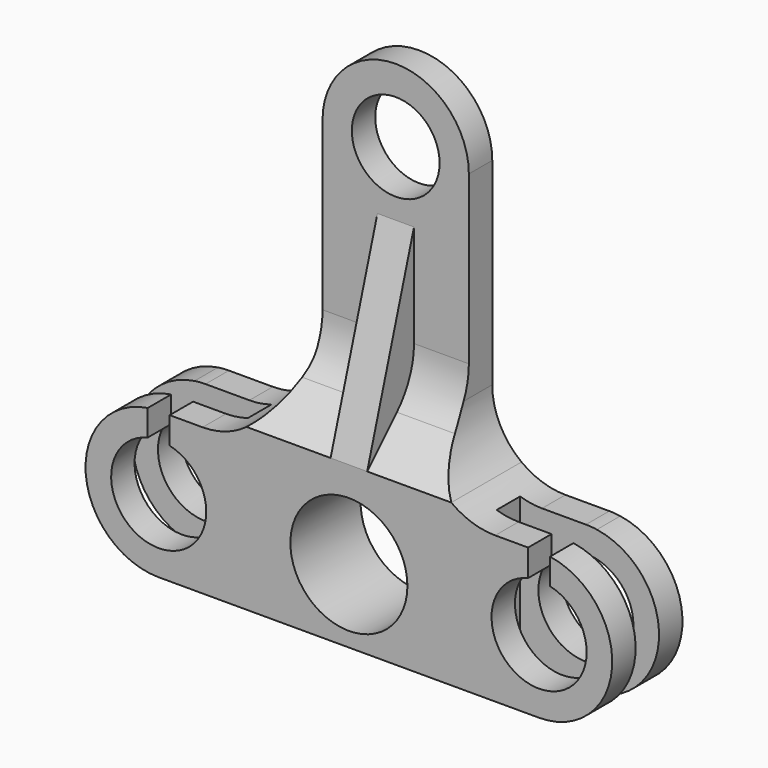
from build123d import *

# Parameters (mm, degrees)
F0_R     = 4
F0_R_2   = 3
F1_DEPTH = 6
F3_DEPTH = 12.5
F5_DEPTH = 1.25
F6_W     = 9.5
F6_H     = 2
F7_DEPTH = 25
F9_DEPTH = 3


with BuildPart() as f1:
    # F0 (on Front) → F1 (new body)
    with BuildSketch(Plane.XZ):
        with BuildLine():
            ThreePointArc((-12.25, 3.162278), (-10.45049, 2.015564), (-9.75, 0))
            ThreePointArc((-9.75, 0), (-15.015564, -2.54951), (-13.75, 3.162278))
            Line((-13.75, 3.162278), (-13.75, 4.94343))
            ThreePointArc((-13.75, 4.94343), (-17.985837, -0.376065), (-13, -5))
            Line((-13, -5), (13, -5))
            ThreePointArc((13, -5), (17.985837, -0.376065), (13.75, 4.94343))
            Line((13.75, 4.94343), (13.75, 3.162278))
            ThreePointArc((13.75, 3.162278), (15.54951, 2.015564), (16.25, 0))
            ThreePointArc((16.25, 0), (10.984436, -2.54951), (12.25, 3.162278))
            Line((12.25, 3.162278), (12.25, 5))
            Line((12.25, 5), (10, 5))
            ThreePointArc((10, 5), (8.418861, 5.256584), (7, 6))
            Line((7, 6), (1.25, 6))
            Line((1.25, 6), (-1.25, 6))
            Line((-1.25, 6), (-7, 6))
            ThreePointArc((-7, 6), (-8.418861, 5.256584), (-10, 5))
            Line((-10, 5), (-12.25, 5))
            Line((-12.25, 5), (-12.25, 3.162278))
        make_face()
        Circle(F0_R, mode=Mode.SUBTRACT)
        with BuildLine():
            ThreePointArc((-13.75, 3.162278), (-13, 3.25), (-12.25, 3.162278))
            Line((-12.25, 3.162278), (-12.25, 5))
            Line((-12.25, 5), (-13, 5))
            ThreePointArc((-13, 5), (-13.376065, 4.985837), (-13.75, 4.94343))
            Line((-13.75, 4.94343), (-13.75, 3.162278))
        make_face()
        with BuildLine():
            ThreePointArc((-5, 10), (-5.527864, 7.763932), (-7, 6))
            Line((-7, 6), (-1.25, 6))
            Line((-1.25, 6), (-1.25, 19))
            Line((-1.25, 19), (1.25, 19))
            Line((1.25, 19), (1.25, 6))
            Line((1.25, 6), (7, 6))
            ThreePointArc((7, 6), (5.527864, 7.763932), (5, 10))
            Line((5, 10), (5, 23.5))
            ThreePointArc((5, 23.5), (0, 28.5), (-5, 23.5))
            Line((-5, 23.5), (-5, 10))
        make_face()
        with Locations((0, 23.5)):
            Circle(F0_R_2, mode=Mode.SUBTRACT)
        with BuildLine():
            Line((13.75, 3.162278), (13.75, 4.94343))
            ThreePointArc((13.75, 4.94343), (13.376065, 4.985837), (13, 5))
            Line((13, 5), (12.25, 5))
            Line((12.25, 5), (12.25, 3.162278))
            ThreePointArc((12.25, 3.162278), (13, 3.25), (13.75, 3.162278))
        make_face()
    extrude(amount=F1_DEPTH)

    # F2 (on Right) → F3 (cut, symmetric)
    with BuildSketch(Plane.YZ):
        Polygon((-2, 19.08341), (-2, 28.5), (-6, 28.5), (-6, 6), align=None)
        with BuildLine():
            Line((-2, 12.071068), (-2, 19.08341))
            Line((-2, 19.08341), (-6, 6))
            Line((-6, 6), (-3.464466, 8.535534))
            ThreePointArc((-3.464466, 8.535534), (-2.380602, 10.157651), (-2, 12.071068))
        make_face()
    extrude(amount=F3_DEPTH, both=True, mode=Mode.SUBTRACT)

    # F4 (on Right) → F5 (join, symmetric)
    with BuildSketch(Plane.YZ):
        Polygon((-2, 19.08341), (-6, 6), (0, 6), (0, 19.08341), align=None)
    extrude(amount=F5_DEPTH, both=True)

    # F6 (on face) → F7 (cut)
    with BuildSketch(Plane(origin=(0, 0, -5), x_dir=(1, 0, 0), z_dir=(0, 0, -1))):
        with Locations((-13.25, 3)):
            Rectangle(F6_W, F6_H)
        with Locations((13.25, 3)):
            Rectangle(F6_W, F6_H)
    extrude(amount=-F7_DEPTH, mode=Mode.SUBTRACT)

    # F8 (on face) → F9 (cut)
    with BuildSketch(Plane.XZ.offset(6)):
        with BuildLine():
            Line((-12.25, 3.162278), (-12.25, 5))
            Line((-12.25, 5), (-13, 5))
            ThreePointArc((-13, 5), (-13.376065, 4.985837), (-13.75, 4.94343))
            Line((-13.75, 4.94343), (-13.75, 3.162278))
            ThreePointArc((-13.75, 3.162278), (-13, 3.25), (-12.25, 3.162278))
        make_face()
        with BuildLine():
            Line((13, 5), (12.25, 5))
            Line((12.25, 5), (12.25, 3.162278))
            ThreePointArc((12.25, 3.162278), (13, 3.25), (13.75, 3.162278))
            Line((13.75, 3.162278), (13.75, 4.94343))
            ThreePointArc((13.75, 4.94343), (13.376065, 4.985837), (13, 5))
        make_face()
    extrude(amount=-F9_DEPTH, mode=Mode.SUBTRACT)


solid = f1.part
